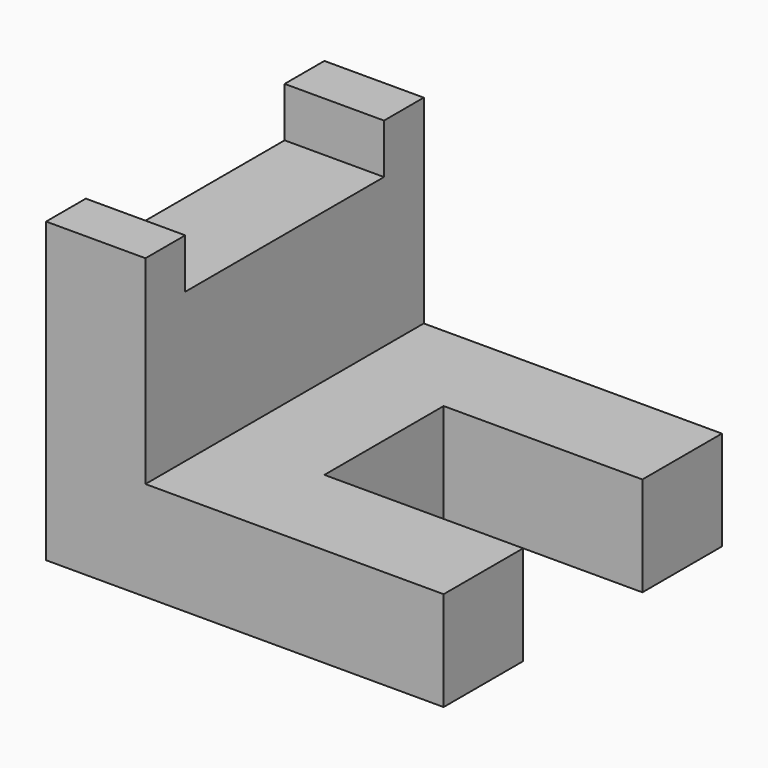
from build123d import *

# Parameters (mm, degrees)
F1_DEPTH = 177.8
F2_W     = 50.8
F2_H     = 25.4
F3_DEPTH = 25.4
F4_W     = 50.8
F4_H     = 25.4
F5_DEPTH = 25.4
F7_DEPTH = 101.6


with BuildPart() as f1:
    # F0 (on Front) → F1 (new body)
    with BuildSketch(Plane.XZ):
        Polygon((-99.25165, 100.57334), (-99.25165, -26.42666), (103.94835, -26.42666), (103.94835, 24.37334), (-48.45165, 24.37334), (-48.45165, 100.57334), align=None)
    extrude(amount=F1_DEPTH)

    # F2 (on face) → F3 (join)
    with BuildSketch(Plane.XY.offset(100.57334)):
        with Locations((-73.85165, -165.1)):
            Rectangle(F2_W, F2_H)
    extrude(amount=F3_DEPTH)

    # F4 (on face) → F5 (join)
    with BuildSketch(Plane.XY.offset(100.57334)):
        with Locations((-73.85165, -12.7)):
            Rectangle(F4_W, F4_H)
    extrude(amount=F5_DEPTH)

    # F6 (on face) → F7 (cut)
    with BuildSketch(Plane.YZ.offset(103.94835)):
        Polygon((-127, 24.37334), (-127, -1.02666), (-127, -26.42666), (-50.8, -26.42666), (-50.8, 0), (-50.8, 24.37334), align=None)
    extrude(amount=-F7_DEPTH, mode=Mode.SUBTRACT)


solid = f1.part
